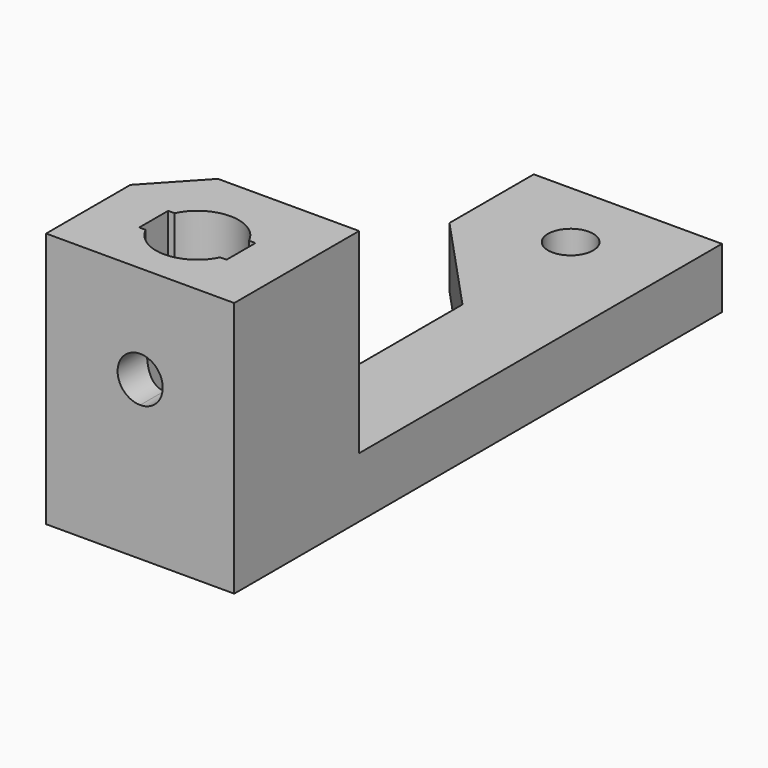
from build123d import *

# Parameters (mm, degrees)
F0_R     = 2.75
F0_R_2   = 1.5
F1_DEPTH = 4
F2_DEPTH = 17
F4_DEPTH = 25


with BuildPart() as f1:
    # F0 (on Top) → F1 (new body)
    with BuildSketch(Plane.XY):
        Polygon((-6.25, -20.25), (6.25, -20.25), (6.25, -9.8827272505), (-3.125, -9.8827272505), (-6.25, -13.25), align=None)
        with BuildLine():
            ThreePointArc((-2.4743686063, -14.3), (0, -12.75), (2.4743686063, -14.3))
            Line((2.4743686063, -14.3), (2.9, -14.3))
            Line((2.9, -14.3), (2.9, -16.7))
            Line((2.9, -16.7), (2.4743686063, -16.7))
            ThreePointArc((2.4743686063, -16.7), (0, -18.25), (-2.4743686063, -16.7))
            Line((-2.4743686063, -16.7), (-2.9, -16.7))
            Line((-2.9, -16.7), (-2.9, -14.3))
            Line((-2.9, -14.3), (-2.4743686063, -14.3))
        make_face(mode=Mode.SUBTRACT)
        Polygon((-3.125, -9.8827272505), (6.25, -9.8827272505), (6.25, -6.5154545009), (0, -6.5154545009), align=None)
        Polygon((0, -6.5154545009), (6.25, -6.5154545009), (6.25, 20.25), (-6.25, 20.25), (-6.25, 13.25), (0, 6.5154545009), (0, 0), align=None)
        with Locations((0, 15.5)):
            Circle(F0_R, mode=Mode.SUBTRACT)
        with Locations((0, 15.5)):
            Circle(F0_R)
        with Locations((0, 15.5)):
            Circle(F0_R_2, mode=Mode.SUBTRACT)
        with BuildLine():
            ThreePointArc((-0.9, -14.3), (0, -14), (0.9, -14.3))
            Line((0.9, -14.3), (2.4743686063, -14.3))
            ThreePointArc((2.4743686063, -14.3), (0, -12.75), (-2.4743686063, -14.3))
            Line((-2.4743686063, -14.3), (-0.9, -14.3))
        make_face()
        with BuildLine():
            ThreePointArc((-0.9, -16.7), (-1.5, -15.5), (-0.9, -14.3))
            Line((-0.9, -14.3), (-2.4743686063, -14.3))
            ThreePointArc((-2.4743686063, -14.3), (-2.75, -15.5), (-2.4743686063, -16.7))
            Line((-2.4743686063, -16.7), (-0.9, -16.7))
        make_face()
        with BuildLine():
            Line((2.4743686063, -16.7), (0.9, -16.7))
            ThreePointArc((0.9, -16.7), (0, -17), (-0.9, -16.7))
            Line((-0.9, -16.7), (-2.4743686063, -16.7))
            ThreePointArc((-2.4743686063, -16.7), (0, -18.25), (2.4743686063, -16.7))
        make_face()
        with BuildLine():
            ThreePointArc((0.9, -14.3), (1.3416407865, -14.8291796068), (1.5, -15.5))
            ThreePointArc((1.5, -15.5), (1.3416407865, -16.1708203932), (0.9, -16.7))
            Line((0.9, -16.7), (2.4743686063, -16.7))
            ThreePointArc((2.4743686063, -16.7), (2.6802064909, -16.1156242087), (2.75, -15.5))
            ThreePointArc((2.75, -15.5), (2.6802064909, -14.8843757913), (2.4743686063, -14.3))
            Line((2.4743686063, -14.3), (0.9, -14.3))
        make_face()
        with BuildLine():
            ThreePointArc((-2.4743686063, -16.7), (-2.75, -15.5), (-2.4743686063, -14.3))
            Line((-2.4743686063, -14.3), (-2.9, -14.3))
            Line((-2.9, -14.3), (-2.9, -16.7))
            Line((-2.9, -16.7), (-2.4743686063, -16.7))
        make_face()
        with BuildLine():
            Line((2.9, -14.3), (2.4743686063, -14.3))
            ThreePointArc((2.4743686063, -14.3), (2.6802064909, -14.8843757913), (2.75, -15.5))
            ThreePointArc((2.75, -15.5), (2.6802064909, -16.1156242087), (2.4743686063, -16.7))
            Line((2.4743686063, -16.7), (2.9, -16.7))
            Line((2.9, -16.7), (2.9, -14.3))
        make_face()
    extrude(amount=F1_DEPTH)

    # F0 (on Top) → F2 (join)
    with BuildSketch(Plane.XY):
        Polygon((-6.25, -20.25), (6.25, -20.25), (6.25, -9.8827272505), (-3.125, -9.8827272505), (-6.25, -13.25), align=None)
        with BuildLine():
            ThreePointArc((-2.4743686063, -14.3), (0, -12.75), (2.4743686063, -14.3))
            Line((2.4743686063, -14.3), (2.9, -14.3))
            Line((2.9, -14.3), (2.9, -16.7))
            Line((2.9, -16.7), (2.4743686063, -16.7))
            ThreePointArc((2.4743686063, -16.7), (0, -18.25), (-2.4743686063, -16.7))
            Line((-2.4743686063, -16.7), (-2.9, -16.7))
            Line((-2.9, -16.7), (-2.9, -14.3))
            Line((-2.9, -14.3), (-2.4743686063, -14.3))
        make_face(mode=Mode.SUBTRACT)
    extrude(amount=F2_DEPTH)

    # F3 (on Front) → F4 (cut)
    with BuildSketch(Plane.XZ):
        with BuildLine():
            ThreePointArc((0, 9), (1.0606601718, 9.4393398282), (1.5, 10.5))
            ThreePointArc((1.5, 10.5), (-1.0606601718, 11.5606601718), (0, 9))
        make_face()
    extrude(amount=F4_DEPTH, mode=Mode.SUBTRACT)


solid = f1.part
